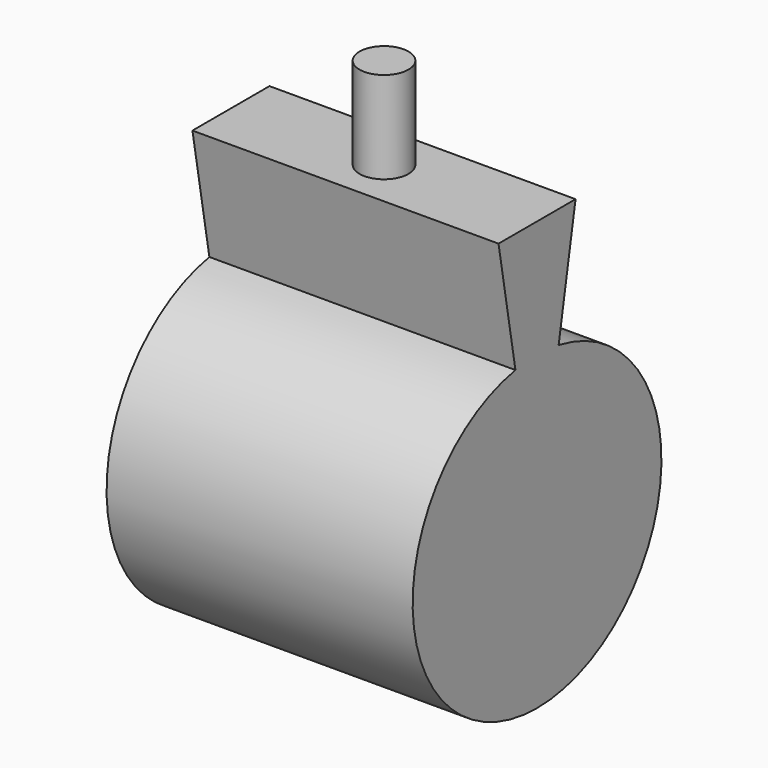
from build123d import *

# Parameters (mm, degrees)
F1_DEPTH = 50
F2_R     = 4
F3_DEPTH = 15


with BuildPart() as f1:
    # F0 (on Right) → F1 (new body)
    with BuildSketch(Plane.YZ):
        with BuildLine():
            Line((-7.864183, 0), (-4.410664, -19.585883))
            ThreePointArc((-4.410664, -19.585883), (0, -70), (4.410664, -19.585883))
            Line((4.410664, -19.585883), (7.864183, 0))
            Line((7.864183, 0), (-7.864183, 0))
        make_face()
    extrude(amount=F1_DEPTH)

    # F2 (on face) → F3 (join)
    with BuildSketch(Plane.XY):
        with Locations((25, 0)):
            Circle(F2_R)
    extrude(amount=F3_DEPTH)


solid = f1.part
